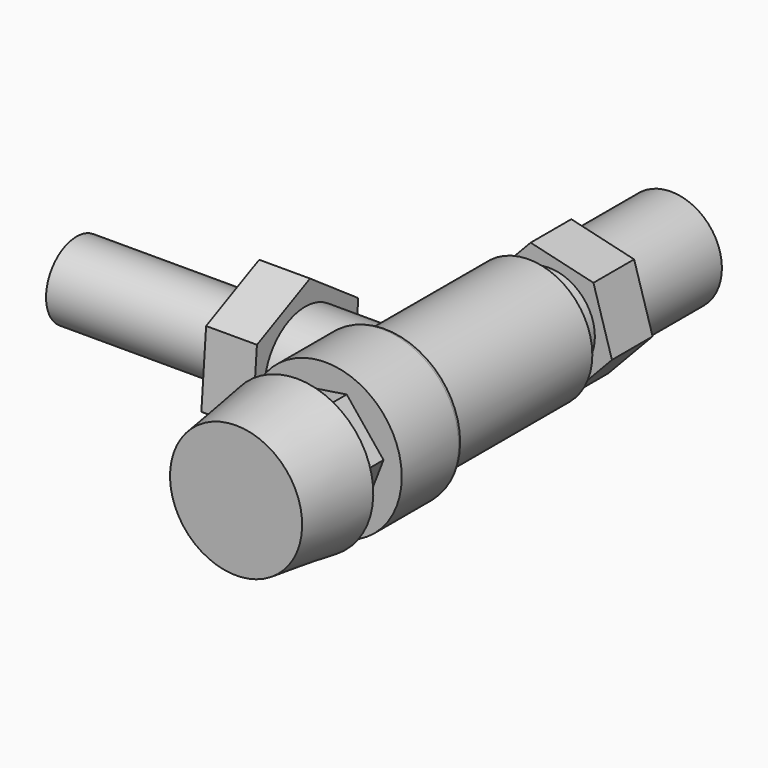
from build123d import *

# Parameters (mm, degrees)
F0_R      = 10
F1_DEPTH  = 10
F3_DEPTH  = 10
F4_R      = 9
F5_DEPTH  = 5
F6_R      = 12.5
F7_DEPTH  = 35
F8_R      = 15
F9_DEPTH  = 15
F10_R     = 1
F12_DEPTH = 5
F13_R     = 7.2112985608
F14_DEPTH = 2
F19_R     = 7.5
F19_R_2   = 6
F23_DEPTH = 10
F24_R     = 10
F25_DEPTH = 15


with BuildPart() as f1:
    # F0 (on Front) → F1 (new body, symmetric)
    with BuildSketch(Plane.XZ):
        Circle(F0_R)
    extrude(amount=F1_DEPTH, both=True)

    # F2 (on face) → F3 (join)
    with BuildSketch(Plane.XZ.offset(10)):
        Polygon((3.6354375365, -12.1703297922), (12.3575335407, -2.9367836356), (8.7220960043, 9.2335461566), (-3.6354375365, 12.1703297922), (-12.3575335407, 2.9367836356), (-8.7220960043, -9.2335461566), align=None)
    extrude(amount=F3_DEPTH)

    # F4 (on face) → F5 (join)
    with BuildSketch(Plane.XZ.offset(20)):
        Circle(F4_R)
    extrude(amount=F5_DEPTH)

    # F6 (on face) → F7 (join)
    with BuildSketch(Plane.XZ.offset(25)):
        Circle(F6_R)
    extrude(amount=F7_DEPTH)

    # F8 (on face) → F9 (join)
    with BuildSketch(Plane.XZ.offset(60)):
        Circle(F8_R)
    extrude(amount=F9_DEPTH)

    # F10
    f10_edges = [f1.edges().sort_by_distance(p)[0] for p in [
        (-15, -60, 0),
        (-12.5, -60, 0),
    ]]
    fillet(f10_edges, radius=F10_R)

    # F11 (on face) → F12 (join)
    with BuildSketch(Plane.XZ.offset(75)):
        Polygon((7.2396767244, -8.9955774834), (11.4102369845, 1.7719552168), (4.1705602602, 10.7675327002), (-7.2396767244, 8.9955774834), (-11.4102369845, -1.7719552168), (-4.1705602602, -10.7675327002), align=None)
    extrude(amount=F12_DEPTH)

    # F13 (on face) → F14 (join)
    with BuildSketch(Plane.XZ.offset(80)):
        Circle(F13_R)
    extrude(amount=F14_DEPTH)

    # F15 (on Right) → F16 (revolve)
    with BuildSketch(Plane.YZ):
        Polygon((-97, 0), (-82, 0), (-82, 7.2112985608), (-82, 15), (-97, 13), align=None)
    revolve(axis=Axis((0, -41, 0), (0, -1, 0)))

    # F19 (on offset) → F20 (join, up to the next surface of F1)
    with BuildSketch(Plane.YZ.offset(-65)):
        with Locations((-55, 0)):
            Circle(F19_R)
        with Locations((-55, 0)):
            Circle(F19_R_2, mode=Mode.SUBTRACT)
        with Locations((-55, 0)):
            Circle(F19_R)
        with Locations((-55, 0)):
            Circle(F19_R_2, mode=Mode.SUBTRACT)
    extrude(until=Until.NEXT)

    # F22 (on offset) → F23 (join)
    with BuildSketch(Plane.YZ.offset(-30)):
        Polygon((-68.0466406272, -6.1740182765), (-56.1764636427, -14.3857313554), (-43.1298230155, -8.2117130789), (-41.9533593728, 6.1740182765), (-53.8235363573, 14.3857313554), (-66.8701769845, 8.2117130789), align=None)
    extrude(amount=F23_DEPTH)

    # F24 (on face) → F25 (join)
    with BuildSketch(Plane.YZ.offset(-20)):
        with Locations((-55, 0)):
            Circle(F24_R)
    extrude(amount=F25_DEPTH)


solid = f1.part
